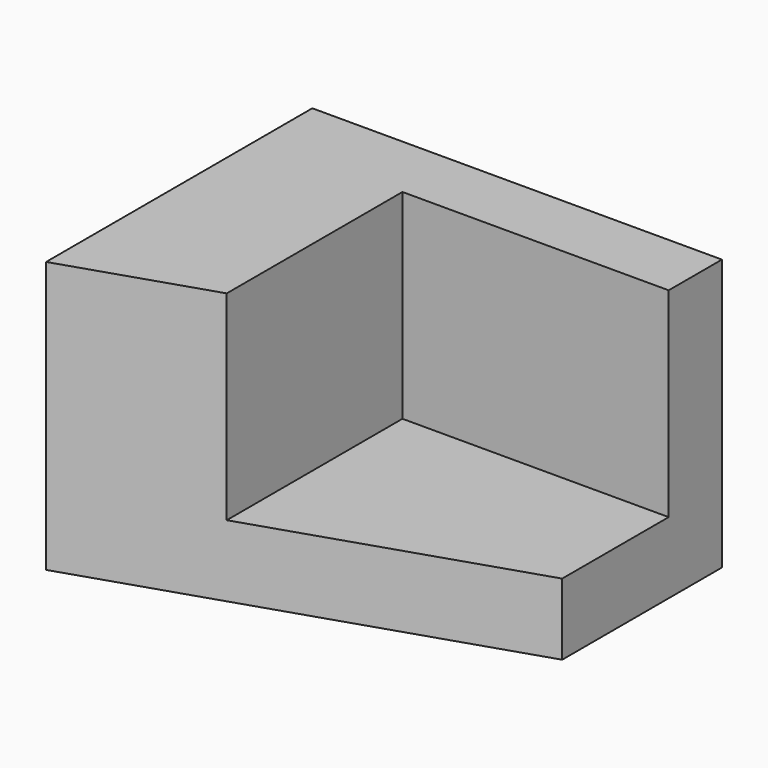
from build123d import *

# Parameters (mm, degrees)
F0_W     = 78.157008
F0_H     = 51.731035
F1_DEPTH = 63.5
F3_DEPTH = 51.732035
F4_W     = 50.8
F4_H     = 38.1
F5_DEPTH = 50.8


with BuildPart() as f1:
    # F0 (on Front) → F1 (new body)
    with BuildSketch(Plane.XZ):
        with Locations((39.078504, 25.865517)):
            Rectangle(F0_W, F0_H)
    extrude(amount=-F1_DEPTH)

    # F2 (on face) → F3 (cut, through all)
    with BuildSketch(Plane.XY.offset(51.731035)):
        Polygon((78.157008, 25.4), (0, 0), (78.157008, 0), align=None)
    extrude(amount=-F3_DEPTH, mode=Mode.SUBTRACT)

    # F4 (on Front) → F5 (cut)
    with BuildSketch(Plane.XZ):
        with Locations((52.757008, 32.681035)):
            Rectangle(F4_W, F4_H)
    extrude(amount=-F5_DEPTH, mode=Mode.SUBTRACT)


solid = f1.part
